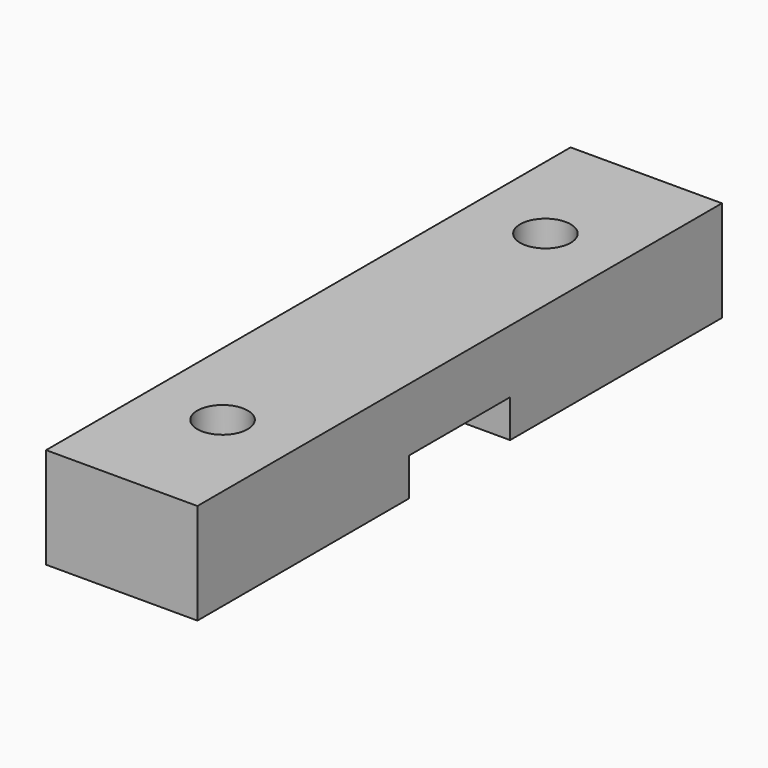
from build123d import *

# Parameters (mm, degrees)
F0_W     = 19.05
F0_H     = 82.530156
F0_R     = 3.175
F1_DEPTH = 12.7
F2_W     = 15.875
F2_H     = 9.525
F3_DEPTH = 19.051


with BuildPart() as f1:
    # F0 (on Top) → F1 (new body)
    with BuildSketch(Plane.XY):
        Rectangle(F0_W, F0_H)
        with Locations((0, -25.4)):
            Circle(F0_R, mode=Mode.SUBTRACT)
        with Locations((0, 25.4)):
            Circle(F0_R, mode=Mode.SUBTRACT)
    extrude(amount=F1_DEPTH)

    # F2 (on face) → F3 (cut, through all)
    with BuildSketch(Plane(origin=(-9.525, 0, 0), x_dir=(0, -1, 0), z_dir=(-1, 0, 0))):
        Rectangle(F2_W, F2_H)
    extrude(amount=-F3_DEPTH, mode=Mode.SUBTRACT)


solid = f1.part
